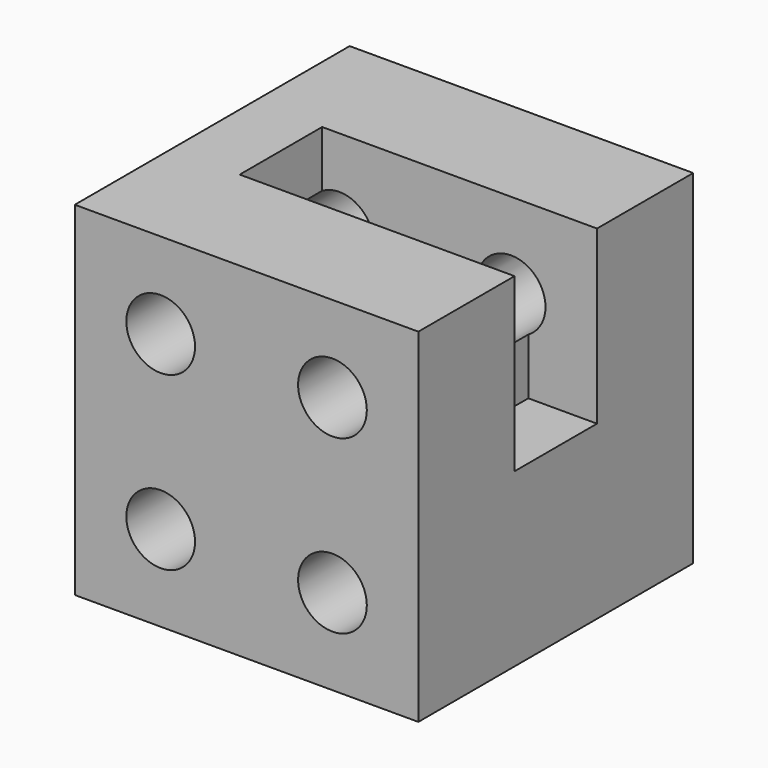
from build123d import *

# Parameters (mm, degrees)
F0_W     = 127
F0_H     = 127
F0_R     = 12.7
F1_DEPTH = 127
F2_W     = 38.1
F2_H     = 63.5
F3_DEPTH = 25.4
F4_W     = 38.1
F4_H     = 31.75
F5_DEPTH = 76.2


with BuildPart() as f1:
    # F0 (on Front) → F1 (new body)
    with BuildSketch(Plane.XZ):
        Rectangle(F0_W, F0_H)
        with Locations((-31.75, -31.75)):
            Circle(F0_R, mode=Mode.SUBTRACT)
        with Locations((31.75, -31.75)):
            Circle(F0_R, mode=Mode.SUBTRACT)
        with Locations((-31.75, 31.75)):
            Circle(F0_R, mode=Mode.SUBTRACT)
        with Locations((31.75, 31.75)):
            Circle(F0_R, mode=Mode.SUBTRACT)
    extrude(amount=F1_DEPTH)

    # F2 (on face) → F3 (cut)
    with BuildSketch(Plane.YZ.offset(63.5)):
        with Locations((-63.5, 31.75)):
            Rectangle(F2_W, F2_H)
    extrude(amount=-F3_DEPTH, mode=Mode.SUBTRACT)

    # F4 (on face) → F5 (cut)
    with BuildSketch(Plane.YZ.offset(38.1)):
        with Locations((-63.5, 47.625)):
            Rectangle(F4_W, F4_H)
    extrude(amount=-F5_DEPTH, mode=Mode.SUBTRACT)


solid = f1.part
